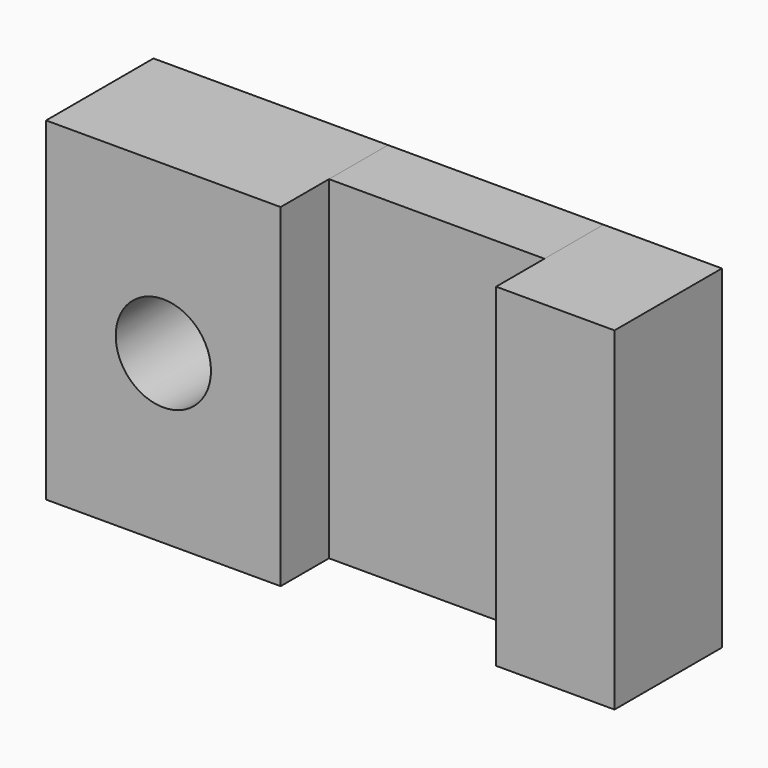
from build123d import *

# Parameters (mm, degrees)
F0_W     = 9.695845
F0_H     = 13.8
F0_R     = 1.969641
F0_W_2   = 4.895809
F1_DEPTH = 5.55
F0_W_3   = 8.908346
F2_DEPTH = 3.05


with BuildPart() as f1:
    # F0 (on Front) → F1 (new body)
    with BuildSketch(Plane.XZ):
        with Locations((-52.347016, 34.931377)):
            Rectangle(F0_W, F0_H)
        with Locations((-52.347017, 34.931377)):
            Circle(F0_R, mode=Mode.SUBTRACT)
        with Locations((-36.142843, 34.931377)):
            Rectangle(F0_W_2, F0_H)
    extrude(amount=F1_DEPTH)


with BuildPart() as f2:
    # F0 (on Front) → F2 (new body)
    with BuildSketch(Plane.XZ):
        with Locations((-43.044921, 34.931377)):
            Rectangle(F0_W_3, F0_H)
    extrude(amount=F2_DEPTH)


solid = Compound([f1.part, f2.part])
